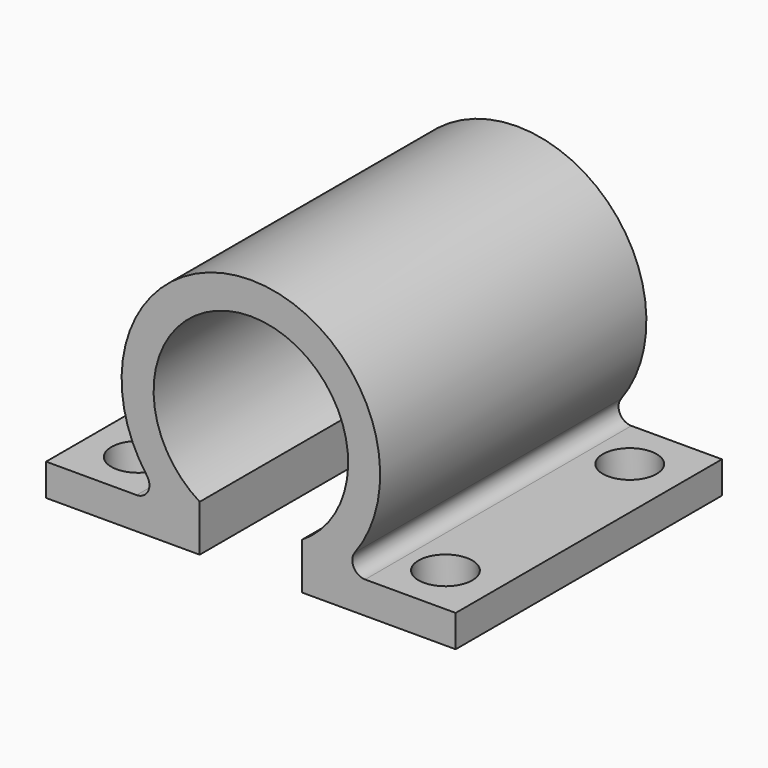
from build123d import *

# Parameters (mm, degrees)
F1_DEPTH = 26
F2_R     = 2.1
F3_DEPTH = 2.5


with BuildPart() as f1:
    # F0 (on Front) → F1 (new body)
    with BuildSketch(Plane.XZ):
        with BuildLine():
            Line((-16, 2.5), (-16, 0))
            Line((-16, 0), (-4, 0))
            Line((-4, 0), (-4, 3.637802))
            ThreePointArc((-4, 3.637802), (0, 17.7), (4, 3.637802))
            Line((4, 3.637802), (4, 0))
            Line((4, 0), (16, 0))
            Line((16, 0), (16, 2.5))
            Line((16, 2.5), (8.924685, 2.5))
            ThreePointArc((8.924685, 2.5), (8.03177, 3.049775), (8.120659, 4.094595))
            ThreePointArc((8.120659, 4.094595), (0, 20.2), (-8.120659, 4.094595))
            ThreePointArc((-8.120659, 4.094595), (-8.03177, 3.049775), (-8.924685, 2.5))
            Line((-8.924685, 2.5), (-16, 2.5))
        make_face()
    extrude(amount=F1_DEPTH)

    # F2 (on face) → F3 (cut, through all)
    with BuildSketch(Plane.XY.offset(2.5)):
        with Locations((-12, -22)):
            Circle(F2_R)
        with Locations((-12, -4)):
            Circle(F2_R)
        with Locations((12, -22)):
            Circle(F2_R)
        with Locations((12, -4)):
            Circle(F2_R)
    extrude(amount=-F3_DEPTH, mode=Mode.SUBTRACT)


solid = f1.part
